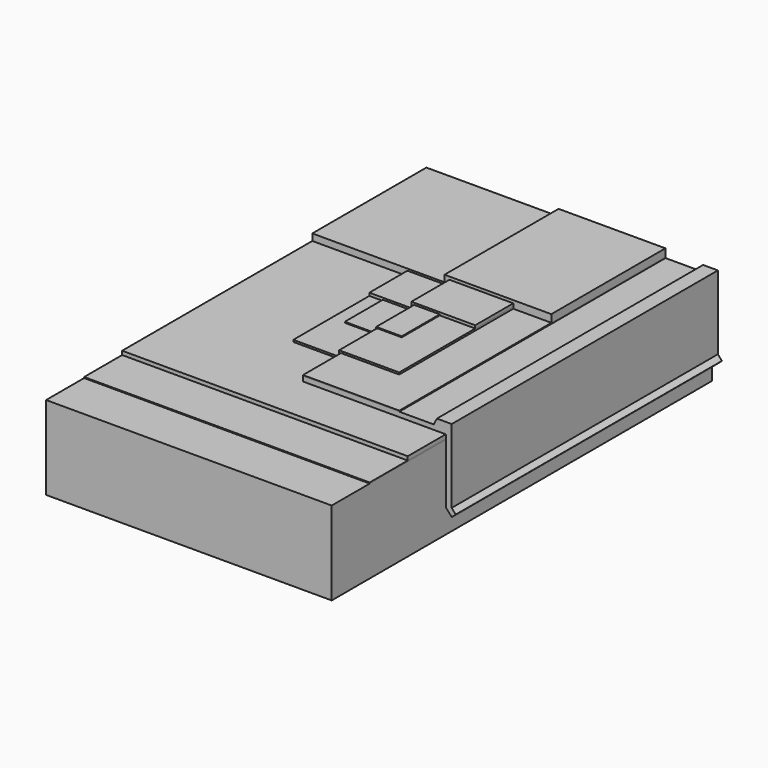
from build123d import *

# Parameters (mm, degrees)
F1_DEPTH = 254
F0_W     = 152.611755
F0_H     = 0.508
F2_DEPTH = 228.6
F3_DEPTH = 203.2
F4_DEPTH = 177.8
F5_DEPTH = 177.8
F6_DEPTH = 152.4
F7_DEPTH = 127
F8_DEPTH = 101.6
F9_DEPTH = 76.2


with BuildPart() as f1:
    # F0 (on Front) → F1 (new body)
    with BuildSketch(Plane.XZ):
        Polygon((76.173723, 23.512076), (-76.438032, 23.512076), (-76.438032, -21.137271), (76.173723, -21.137271), (76.173723, -8.303774), align=None)
    extrude(amount=F1_DEPTH)


with BuildPart() as f2:
    # F0 (on Front) → F2 (new body)
    with BuildSketch(Plane.XZ):
        with Locations((-0.132154, 23.766076)):
            Rectangle(F0_W, F0_H)
    extrude(amount=F2_DEPTH)


with BuildPart() as f3:
    # F0 (on Front) → F3 (new body)
    with BuildSketch(Plane.XZ):
        Polygon((-76.438032, 26.052076), (-76.438032, 24.020076), (76.173723, 24.020076), (76.173723, 26.052076), (-0.132155, 26.052076), (-25.615305, 26.052076), align=None)
    extrude(amount=F3_DEPTH)


with BuildPart() as f4:
    # F0 (on Front) → F4 (new body)
    with BuildSketch(Plane.XZ):
        Polygon((76.173723, 24.020076), (76.173723, 23.512076), (76.173723, -8.303774), (79.332203, -11.883393), (81.485704, -9.983249), (79.332203, -7.542609), (79.332203, 31.894118), (71.43601, 31.894118), (69.713205, 28.592076), (51.336631, 28.592076), (-0.132155, 28.592076), (-0.132155, 26.052076), (76.173723, 26.052076), align=None)
    extrude(amount=F4_DEPTH)


with BuildPart() as f5:
    # F0 (on Front) → F5 (new body)
    with BuildSketch(Plane.XZ):
        Polygon((-0.132155, 29.100076), (-0.132155, 28.592076), (51.336631, 28.592076), (51.336631, 29.100076), (30.95011, 29.100076), align=None)
    extrude(amount=F5_DEPTH)


with BuildPart() as f6:
    # F0 (on Front) → F6 (new body)
    with BuildSketch(Plane.XZ):
        Polygon((-25.615305, 27.068076), (-25.615305, 26.052076), (-0.132155, 26.052076), (-0.132155, 28.592076), (-0.132155, 29.100076), (30.95011, 29.100076), (30.95011, 30.116076), (11.999259, 30.116076), (-1.148155, 30.116076), (-1.148155, 27.068076), (-18.436953, 27.068076), align=None)
    extrude(amount=F6_DEPTH)


with BuildPart() as f7:
    # F0 (on Front) → F7 (new body)
    with BuildSketch(Plane.XZ):
        Polygon((-18.436953, 27.576076), (-18.436953, 27.068076), (-1.148155, 27.068076), (-1.148155, 30.116076), (11.999259, 30.116076), (11.999259, 30.624076), (-1.656155, 30.624076), (-1.656155, 27.576076), align=None)
    extrude(amount=F7_DEPTH)


with BuildPart() as f8:
    # F0 (on Front) → F8 (new body)
    with BuildSketch(Plane.XZ):
        Polygon((-25.615305, 28.592076), (-25.615305, 27.068076), (-18.436953, 27.068076), (-18.436953, 27.576076), (-1.656155, 27.576076), (-1.656155, 30.624076), (11.999259, 30.624076), (11.999259, 30.116076), (30.95011, 30.116076), (30.95011, 31.640076), (-3.180155, 31.640076), (-3.180155, 28.592076), align=None)
    extrude(amount=F8_DEPTH)


with BuildPart() as f9:
    # F0 (on Front) → F9 (new body)
    with BuildSketch(Plane.XZ):
        Polygon((-76.438032, 29.608076), (-76.438032, 26.052076), (-25.615305, 26.052076), (-25.615305, 27.068076), (-25.615305, 28.592076), (-3.180155, 28.592076), (-3.180155, 31.640076), (30.95011, 31.640076), (30.95011, 30.116076), (30.95011, 29.100076), (51.336631, 29.100076), (51.291214, 33.163823), (-5.784058, 33.163823), (-5.784058, 29.608076), align=None)
    extrude(amount=F9_DEPTH)


solid = Compound([f1.part, f2.part, f3.part, f4.part, f5.part, f6.part, f7.part, f8.part, f9.part])
